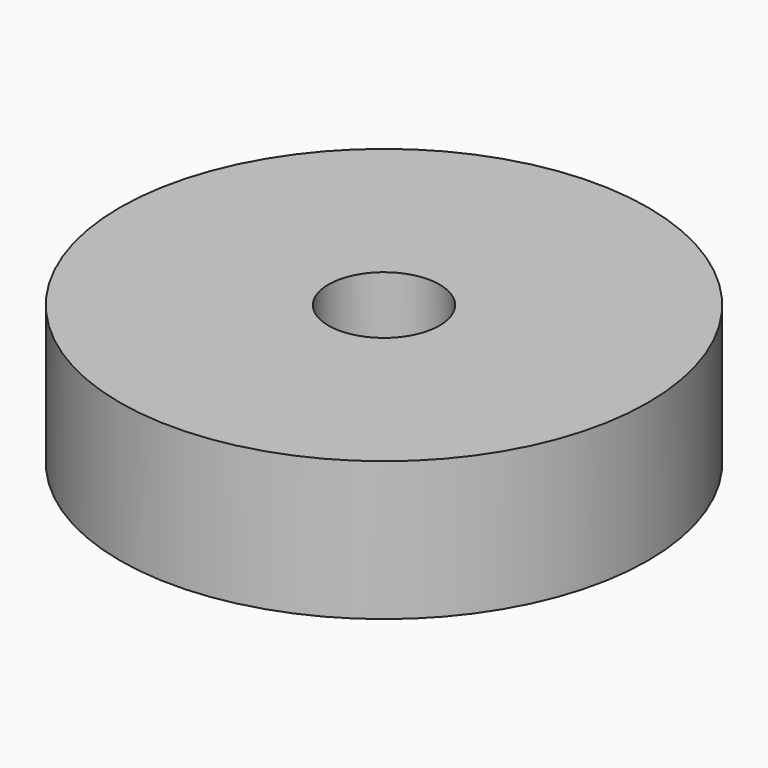
from build123d import *

# Parameters (mm, degrees)
F0_R           = 9.5
F1_DEPTH       = 5
F3_D           = 4
F3_DEPTH       = 5
F3_CSINK_D     = 8.5
F3_CSINK_ANGLE = 90


with BuildPart() as f1:
    # F0 (on Top) → F1 (new body)
    with BuildSketch(Plane.XY):
        Circle(F0_R)
    extrude(amount=F1_DEPTH)

    # F3
    with Locations(Plane(origin=(0, 0, 0), x_dir=(1, 0, 0), z_dir=(0, 0, -1))):
        with Locations((0, 0)):
            CounterSinkHole(F3_D / 2, F3_CSINK_D / 2, depth=F3_DEPTH, counter_sink_angle=F3_CSINK_ANGLE)


solid = f1.part
